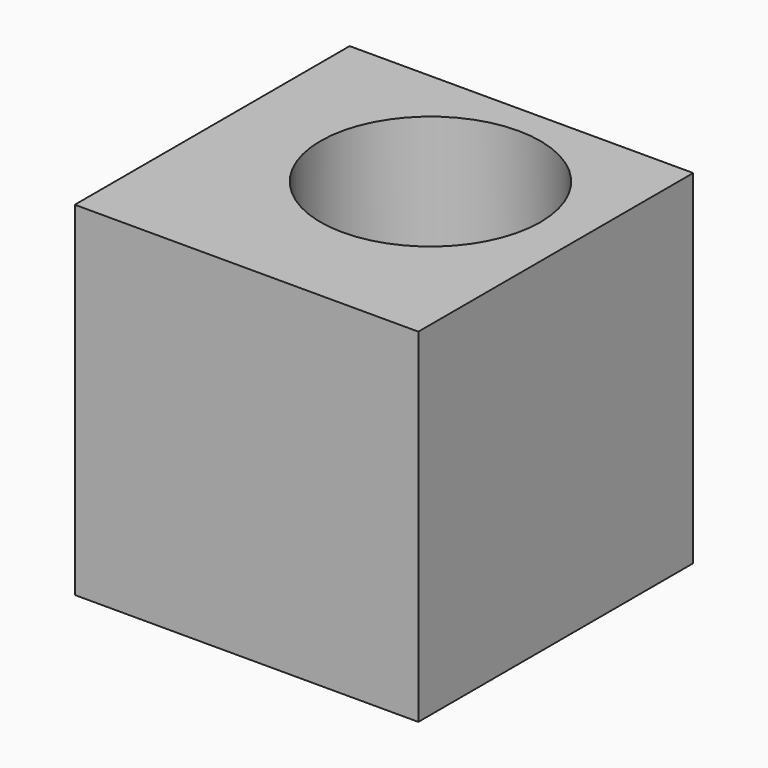
from build123d import *

# Parameters (mm, degrees)
SKETCH029_W      = 5
SKETCH029_H      = 5
EXTRUDE018_DEPTH = 5
SKETCH030_R      = 1.6
HOLE005_DEPTH    = 2.3
HOLE005_TIPS_R   = 1.6


with BuildPart() as part:
    # Sketch029 (on Face9 of Pocket) → Extrude018 (new body)
    with BuildSketch(Plane.XZ.offset(16.37)):
        with Locations((79.700001, 18.8)):
            Rectangle(SKETCH029_W, SKETCH029_H)
    extrude(amount=EXTRUDE018_DEPTH)

    # Sketch030 (on Face1 of Extrude018) → Hole005 (cut)
    with BuildSketch(Plane.XY.offset(21.3)):
        with Locations((80.000001, -18.4)):
            Circle(SKETCH030_R)
    extrude(amount=-HOLE005_DEPTH, mode=Mode.SUBTRACT)

    # Hole005 tips → Hole005 tip 1 section 0
    with BuildSketch(Plane.XY.offset(19), mode=Mode.PRIVATE) as hole005_tip_1_s0:
        with Locations((80.000001, -18.4)):
            Circle(HOLE005_TIPS_R)
    loft([hole005_tip_1_s0.sketch, Vertex(80.000001, -18.4, 18.038623)], mode=Mode.SUBTRACT)


solid = part.part
